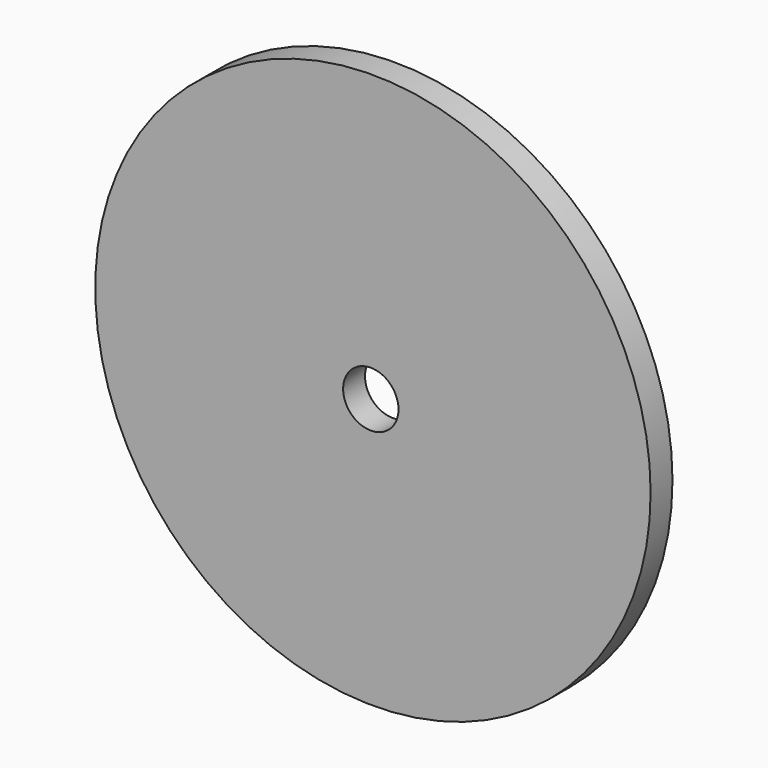
from build123d import *

# Parameters (mm, degrees)
F0_R     = 50.8
F1_DEPTH = 5
F3_R     = 5.063891
F4_DEPTH = 5.001


with BuildPart() as f1:
    # F0 (on Front) → F1 (new body)
    with BuildSketch(Plane.XZ):
        with Locations((-20.323815, 98.206319)):
            Circle(F0_R)
    extrude(amount=F1_DEPTH)

    # F3 (on face) → F4 (cut, through all)
    with BuildSketch(Plane.XZ.offset(5)):
        with Locations((-20.712197, 96.652791)):
            Circle(F3_R)
    extrude(amount=-F4_DEPTH, mode=Mode.SUBTRACT)


solid = f1.part
